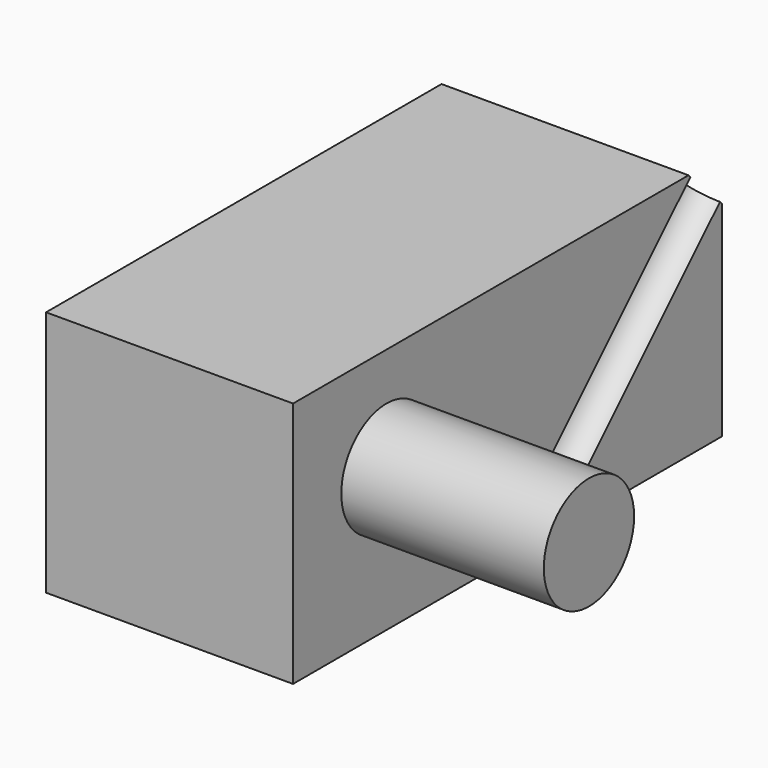
from build123d import *

# Parameters (mm, degrees)
F0_W     = 30.0287567079
F0_H     = 30.0160832703
F1_DEPTH = 65.17821
F2_R     = 6.8609284015
F3_DEPTH = 24.61977
F4_SIZE  = 5.08
F6_D     = 6.35


with BuildPart() as f1:
    # F0 (on Front) → F1 (new body)
    with BuildSketch(Plane.XZ):
        with Locations((15.014378354, 15.0080416352)):
            Rectangle(F0_W, F0_H)
    extrude(amount=F1_DEPTH)

    # F2 (on face) → F3 (join)
    with BuildSketch(Plane.YZ.offset(30.0287567079)):
        with Locations((-50.9841106832, 17.3919200897)):
            Circle(F2_R)
    extrude(amount=F3_DEPTH)

    # F4
    f4_edges = [f1.edges().sort_by_distance(p)[0] for p in [
        (15.014378, 0, 30.016083),
    ]]
    chamfer(f4_edges, length=F4_SIZE)

    # F6 (through all)
    with Locations(Plane(origin=(0, 12.4680416352, 12.4680416352), x_dir=(-1, 0, 0), z_dir=(0, 0.7071067812, 0.7071067812))):
        with Locations((-14.1969984397, 21.2245760251), (-30.0287567079, 21.2245760251)):
            Hole(F6_D / 2)


solid = f1.part
